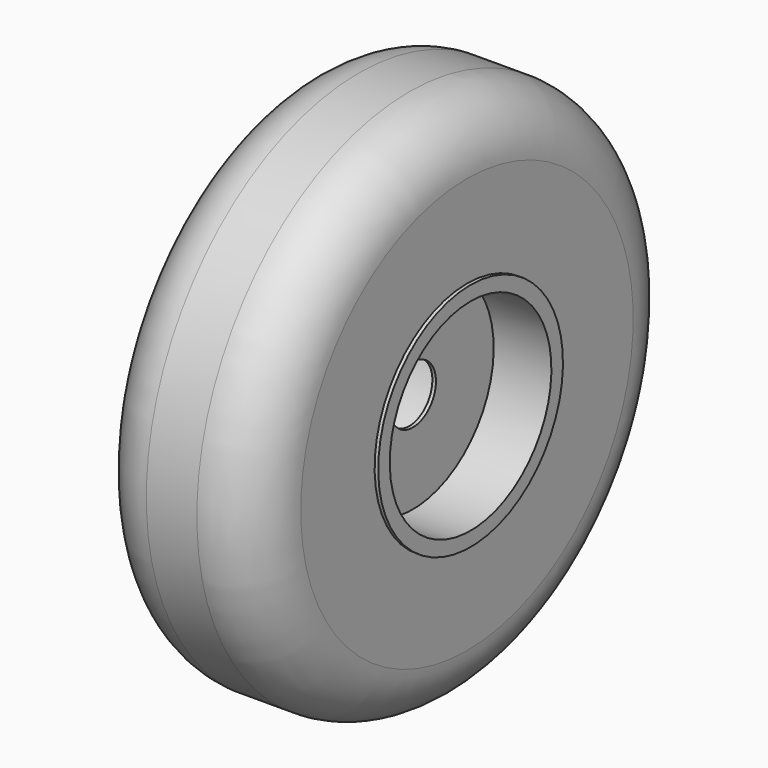
from build123d import *


with BuildPart() as f1:
    # F0 (on Front) → F1 (revolve)
    with BuildSketch(Plane.XZ):
        with BuildLine():
            Line((-95.25, 182.88), (-95.25, 101.6))
            Line((-95.25, 101.6), (-88.9, 101.6))
            Line((-88.9, 101.6), (-88.9, 182.88))
            ThreePointArc((-88.9, 182.88), (-75.880896, 214.310896), (-44.45, 227.33))
            Line((-44.45, 227.33), (0, 227.33))
            ThreePointArc((0, 227.33), (31.430896, 214.310896), (44.45, 182.88))
            Line((44.45, 182.88), (44.45, 101.6))
            Line((44.45, 101.6), (50.8, 101.6))
            Line((50.8, 101.6), (50.8, 182.88))
            ThreePointArc((50.8, 182.88), (35.921024, 218.801024), (0, 233.68))
            Line((0, 233.68), (-44.45, 233.68))
            ThreePointArc((-44.45, 233.68), (-80.371024, 218.801024), (-95.25, 182.88))
        make_face()
        Polygon((0, 88.9), (0, 25.4), (3.175, 25.4), (3.175, 88.9), (53.975, 88.9), (53.975, 101.6), (50.8, 101.6), (50.8, 92.075), (-95.25, 92.075), (-95.25, 101.6), (-98.425, 101.6), (-98.425, 88.9), align=None)
    revolve(axis=Axis((1.5875, 0, 0), (1, 0, 0)))


solid = f1.part
